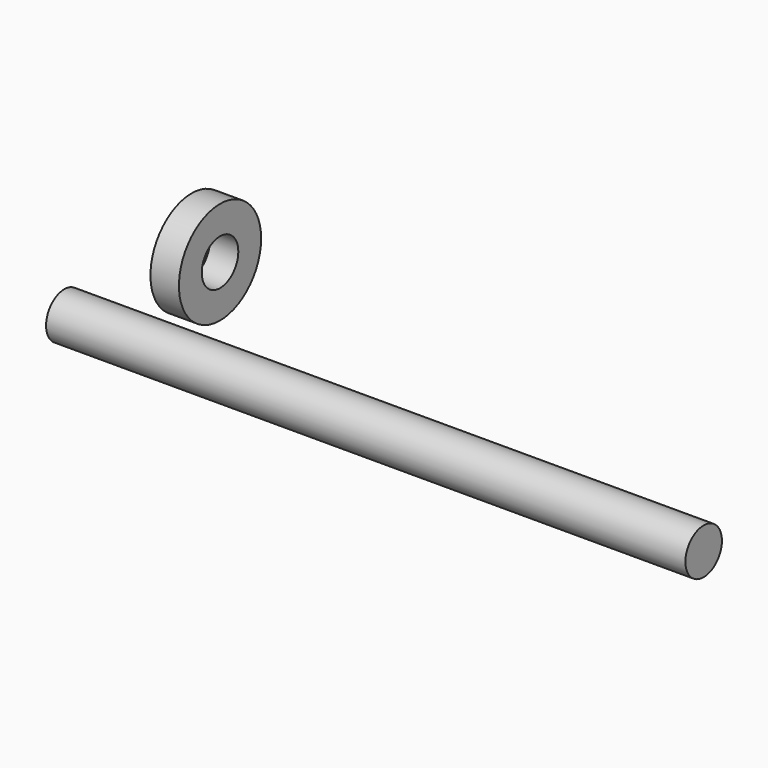
from build123d import *

# Parameters (mm, degrees)
F0_R     = 6.35
F1_DEPTH = 177.8
F2_R     = 14.2875
F2_R_2   = 6.35
F3_DEPTH = 7.9248


with BuildPart() as f1:
    # F0 (on Right) → F1 (new body)
    with BuildSketch(Plane.YZ):
        with Locations((-15.335251, 32.893002)):
            Circle(F0_R)
    extrude(amount=F1_DEPTH)


with BuildPart() as f3:
    # F2 (on Right) → F3 (new body)
    with BuildSketch(Plane.YZ):
        with Locations((28.892498, 30.448252)):
            Circle(F2_R)
        with Locations((28.892498, 30.448252)):
            Circle(F2_R_2, mode=Mode.SUBTRACT)
    extrude(amount=F3_DEPTH)


solid = Compound([f1.part, f3.part])
